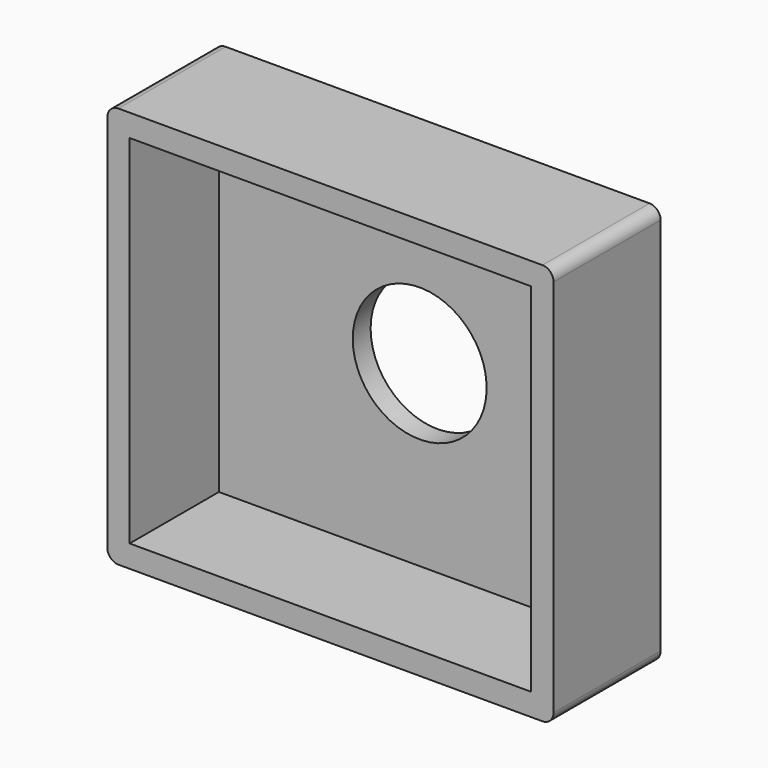
from build123d import *

# Parameters (mm, degrees)
F0_W     = 40
F0_H     = 36
F1_DEPTH = 12
F2_T     = -2
F3_R     = 6
F4_DEPTH = 25
F5_R     = 1


with BuildPart() as f1:
    # F0 (on Front) → F1 (new body)
    with BuildSketch(Plane.XZ):
        with Locations((20, 18)):
            Rectangle(F0_W, F0_H)
    extrude(amount=F1_DEPTH)

    # F2
    f2_openings = [f1.faces().sort_by_distance(p)[0] for p in [
        (20, -12, 18),
    ]]
    offset(amount=F2_T, openings=f2_openings)

    # F3 (on face) → F4 (cut)
    with BuildSketch(Plane(origin=(0, 0, 0), x_dir=(-1, 0, 0), z_dir=(0, 1, 0))):
        with Locations((-20, 18)):
            Circle(F3_R)
    extrude(amount=-F4_DEPTH, mode=Mode.SUBTRACT)

    # F5
    f5_edges = [f1.edges().sort_by_distance(p)[0] for p in [
        (40, -6, 0),
        (40, -6, 36),
        (0, -6, 0),
        (0, -6, 36),
    ]]
    fillet(f5_edges, radius=F5_R)


solid = f1.part
